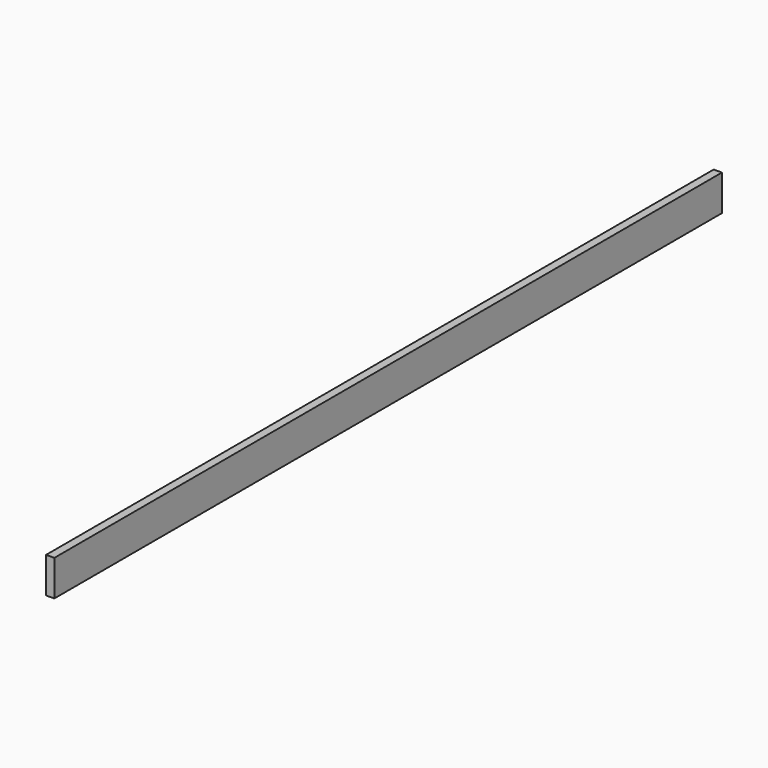
from build123d import *

# Parameters (mm, degrees)
SKETCH005_W  = 1.38
SKETCH005_H  = 6
PAD001_DEPTH = 140


with BuildPart() as part:
    # Sketch005 → Pad001 (new body)
    with BuildSketch(Plane.XZ):
        with Locations((0.69, 3)):
            Rectangle(SKETCH005_W, SKETCH005_H)
    extrude(amount=PAD001_DEPTH)


solid = part.part
